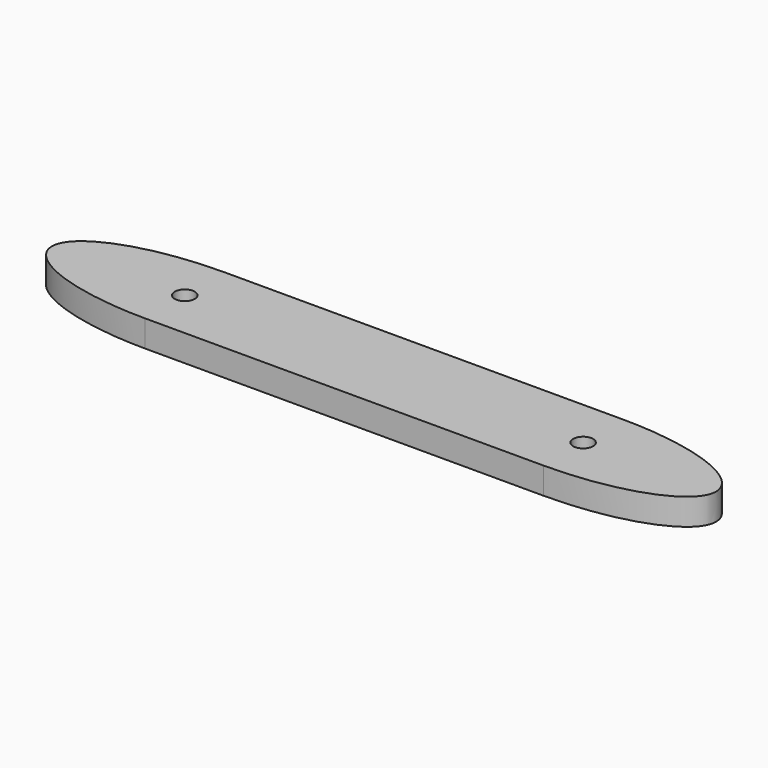
from build123d import *

# Parameters (mm, degrees)
SKETCH_R  = 1.5
PAD_DEPTH = 4


with BuildPart() as part:
    # Sketch → Pad (new body)
    with BuildSketch(Plane.XY):
        with BuildLine():
            add(Edge.make_bspline(
                [(0, 7.5), (-20, 7.5), (-20, 0), (-20, -7.5), (0, -7.5)],
                knots=[4.712389, 4.712389, 4.712389, 6.283185, 6.283185, 7.853982, 7.853982, 7.853982], degree=2, weights=[1, 0.707107, 1, 0.707107, 1]))
            Line((0, -7.5), (60.000001, -7.5))
            add(Edge.make_bspline(
                [(60.000001, -7.5), (80, -7.5), (80, 0), (80, 7.5), (60, 7.5)],
                knots=[4.712389, 4.712389, 4.712389, 6.283185, 6.283185, 7.853982, 7.853982, 7.853982], degree=2, weights=[1, 0.707107, 1, 0.707107, 1]))
            Line((60, 7.5), (0, 7.5))
        make_face()
        with Locations((59.999199, -0.020412)):
            Circle(SKETCH_R, mode=Mode.SUBTRACT)
        Circle(SKETCH_R, mode=Mode.SUBTRACT)
    extrude(amount=PAD_DEPTH)


solid = part.part
